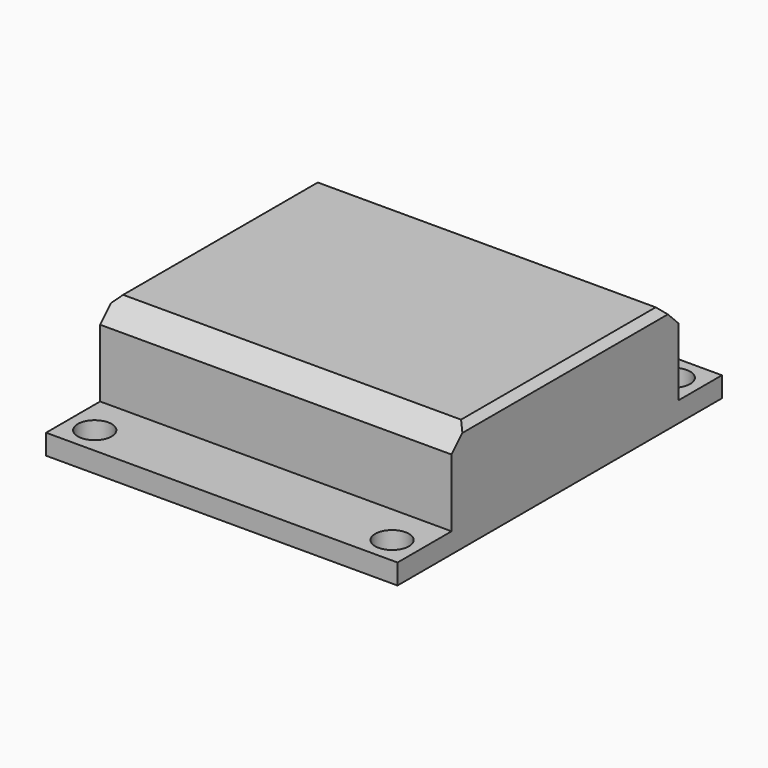
from build123d import *

# Parameters (mm, degrees)
F0_W     = 52
F0_H     = 60
F0_R     = 2.5
F1_DEPTH = 3
F2_W     = 52
F2_H     = 42
F3_DEPTH = 13
F4_SIZE  = 3
F5_SIZE  = 3
F6_SIZE  = 1
F7_SIZE  = 1


with BuildPart() as f1:
    # F0 (on Top) → F1 (new body)
    with BuildSketch(Plane.XY):
        Rectangle(F0_W, F0_H)
        with Locations((-22, -26)):
            Circle(F0_R, mode=Mode.SUBTRACT)
        with Locations((22, -26)):
            Circle(F0_R, mode=Mode.SUBTRACT)
        with Locations((-22, 26)):
            Circle(F0_R, mode=Mode.SUBTRACT)
        with Locations((22, 26)):
            Circle(F0_R, mode=Mode.SUBTRACT)
    extrude(amount=F1_DEPTH)

    # F2 (on face) → F3 (join)
    with BuildSketch(Plane.XY.offset(3)):
        with Locations((0, 1)):
            Rectangle(F2_W, F2_H)
    extrude(amount=F3_DEPTH)

    # F4
    f4_edges = [f1.edges().sort_by_distance(p)[0] for p in [
        (0, -20, 16),
    ]]
    chamfer(f4_edges, length=F4_SIZE)

    # F5
    f5_edges = [f1.edges().sort_by_distance(p)[0] for p in [
        (0, 22, 16),
    ]]
    chamfer(f5_edges, length=F5_SIZE)

    # F6
    f6_edges = [f1.edges().sort_by_distance(p)[0] for p in [
        (-26, 1, 16),
    ]]
    chamfer(f6_edges, length=F6_SIZE)

    # F7
    f7_edges = [f1.edges().sort_by_distance(p)[0] for p in [
        (26, 1, 16),
    ]]
    chamfer(f7_edges, length=F7_SIZE)


solid = f1.part
